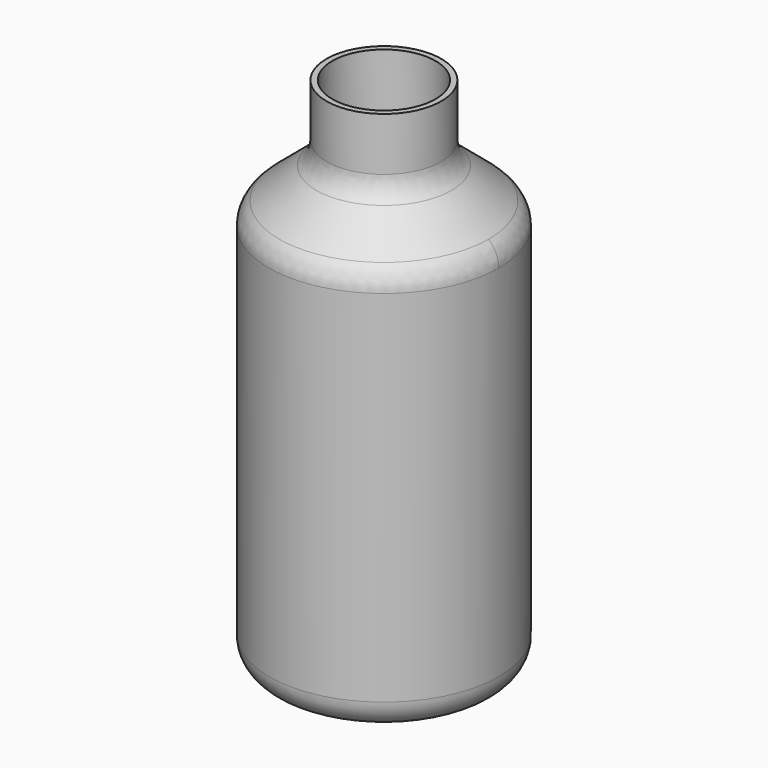
from build123d import *

# Parameters (mm, degrees)
F0_R     = 50.8
F1_DEPTH = 177.8
F4_R     = 12.7
F5_T     = -2.54


with BuildPart() as f1:
    # F0 (on Top) → F1 (new body)
    with BuildSketch(Plane.XY):
        Circle(F0_R)
    extrude(amount=F1_DEPTH)

    # F2 (on Front) → F3 (revolve)
    with BuildSketch(Plane.XZ):
        Polygon((-50.8, 177.8), (0, 177.8), (0, 228.6), (-25.4, 228.6), (-25.4, 199.113131), align=None)
    revolve(axis=Axis((0, 0, 203.2), (0, 0, -1)))

    # F4
    f4_edges = [f1.edges().sort_by_distance(p)[0] for p in [
        (-50.8, 0, 0),
        (0, -50.8, 177.8),
        (0, 50.8, 177.8),
        (25.4, 0, 199.113131),
    ]]
    fillet(f4_edges, radius=F4_R)

    # F5
    f5_openings = [f1.faces().sort_by_distance(p)[0] for p in [
        (0, 0, 228.6),
    ]]
    offset(amount=F5_T, openings=f5_openings)


solid = f1.part
